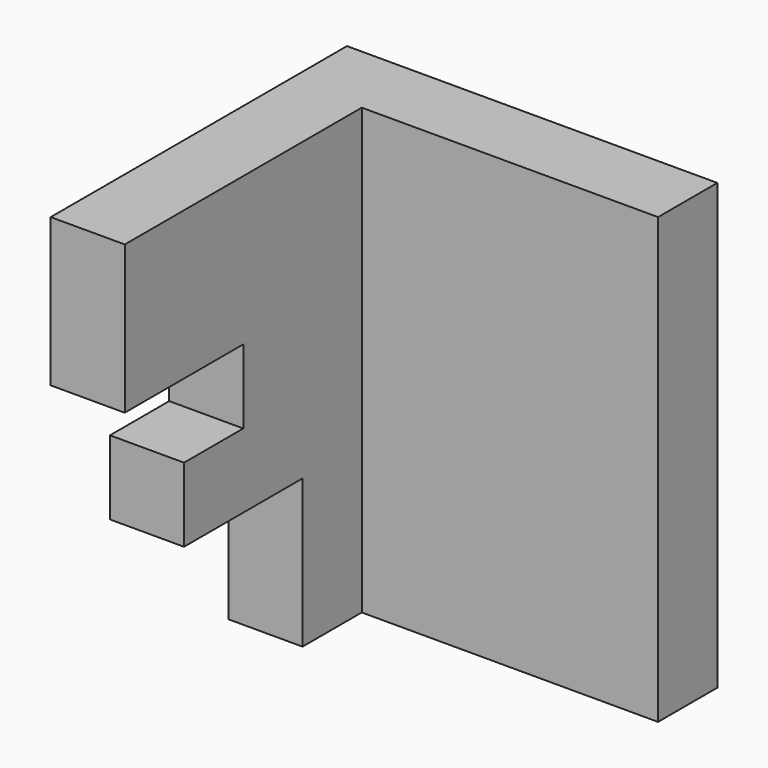
from build123d import *

# Parameters (mm, degrees)
F0_W     = 63.5
F0_H     = 76.2
F1_DEPTH = 12.7
F2_W     = 12.7
F2_H     = 25.4
F3_DEPTH = 12.7
F4_W     = 12.7
F4_H     = 12.7
F5_DEPTH = 38.1
F6_W     = 12.7
F6_H     = 12.7
F7_DEPTH = 25.4
F8_W     = 12.7
F8_H     = 25.4
F9_DEPTH = 50.8


with BuildPart() as f1:
    # F0 (on Front) → F1 (new body)
    with BuildSketch(Plane.XZ):
        with Locations((2.889522, -2.890401)):
            Rectangle(F0_W, F0_H)
    extrude(amount=F1_DEPTH)

    # F2 (on face) → F3 (join)
    with BuildSketch(Plane.XZ.offset(12.7)):
        with Locations((-22.510478, -28.290401)):
            Rectangle(F2_W, F2_H)
    extrude(amount=F3_DEPTH)

    # F4 (on face) → F5 (join)
    with BuildSketch(Plane.XZ.offset(12.7)):
        with Locations((-22.510478, -9.240401)):
            Rectangle(F4_W, F4_H)
    extrude(amount=F5_DEPTH)

    # F6 (on face) → F7 (join)
    with BuildSketch(Plane.XZ.offset(12.7)):
        with Locations((-22.510478, 3.459599)):
            Rectangle(F6_W, F6_H)
    extrude(amount=F7_DEPTH)

    # F8 (on face) → F9 (join)
    with BuildSketch(Plane.XZ.offset(12.7)):
        with Locations((-22.510478, 22.509599)):
            Rectangle(F8_W, F8_H)
    extrude(amount=F9_DEPTH)


solid = f1.part
